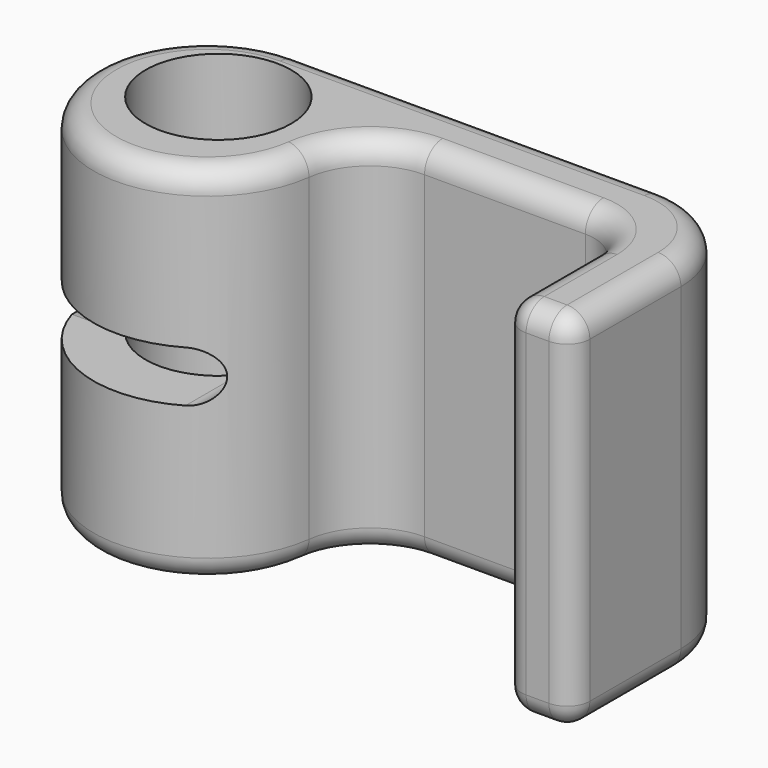
from build123d import *

# Parameters (mm, degrees)
F0_R     = 10.16
F1_DEPTH = 50.8
F3_R     = 3.175
F2_W     = 38.1
F2_H     = 15.875
F5_DEPTH = 31.751
F5_TAPER = 12
F6_DEPTH = 25.4


with BuildPart() as f1:
    # F0 (on Top) → F1 (new body)
    with BuildSketch(Plane.XY):
        with BuildLine():
            ThreePointArc((0, 15.875), (11.2253201513, 11.2253201513), (15.875, 0))
            ThreePointArc((15.875, 0), (15.8438414877, -0.9941387788), (15.7504882631, -1.9843750839))
            ThreePointArc((15.7504882631, -1.9843750839), (18.9005858967, 3.968749972), (25.2007812379, 6.35))
            Line((25.2007812379, 6.35), (47.625, 6.35))
            ThreePointArc((47.625, 6.35), (52.1151280605, 4.4901280605), (53.975, 0))
            Line((53.975, 0), (53.975, -12.7))
            ThreePointArc((53.975, -12.7), (54.9049359697, -14.9450640303), (57.15, -15.875))
            Line((57.15, -15.875), (60.325, -15.875))
            ThreePointArc((60.325, -15.875), (62.5700640303, -14.9450640303), (63.5, -12.7))
            Line((63.5, -12.7), (63.5, 3.175))
            ThreePointArc((63.5, 3.175), (59.7802561211, 12.1552561211), (50.8, 15.875))
            Line((50.8, 15.875), (0, 15.875))
        make_face()
        with BuildLine():
            ThreePointArc((15.7504882631, -1.9843750839), (15.8438414877, -0.9941387788), (15.875, 0))
            ThreePointArc((15.875, 0), (11.2253201513, 11.2253201513), (0, 15.875))
            ThreePointArc((0, 15.875), (-11.906250028, -10.5003254841), (15.7504882631, -1.9843750839))
        make_face()
        with Locations((0, 1.905)):
            Circle(F0_R, mode=Mode.SUBTRACT)
    extrude(amount=F1_DEPTH)

    # F3
    f3_edges = [f1.edges().sort_by_distance(p)[0] for p in [
        (25.4, 15.875, 0),
        (25.4, 15.875, 50.8),
    ]]
    fillet(f3_edges, radius=F3_R)

    # F2 (on face) → F5 (cut, through all)
    with BuildSketch(Plane(origin=(0, 15.875, 0), x_dir=(-1, 0, 0), z_dir=(0, 1, 0))):
        with BuildLine():
            ThreePointArc((-7.9375, 33.3375), (-15.875, 25.4), (-7.9375, 17.4625))
            Line((-7.9375, 17.4625), (0, 17.4625))
            Line((0, 17.4625), (0, 33.3375))
            Line((0, 33.3375), (-7.9375, 33.3375))
        make_face()
        with Locations((19.05, 25.4)):
            Rectangle(F2_W, F2_H)
    extrude(amount=-F5_DEPTH, taper=F5_TAPER, mode=Mode.SUBTRACT)

    # F4 (on face) → F6 (cut)
    with BuildSketch(Plane.XZ.offset(15.875)):
        with BuildLine():
            Line((-38.1, 21.828125), (7.9375, 21.828125))
            ThreePointArc((7.9375, 21.828125), (11.509375, 25.4), (7.9375, 28.971875))
            Line((7.9375, 28.971875), (-38.1, 28.971875))
            Line((-38.1, 28.971875), (-38.1, 21.828125))
        make_face()
    extrude(amount=-F6_DEPTH, mode=Mode.SUBTRACT)


solid = f1.part
